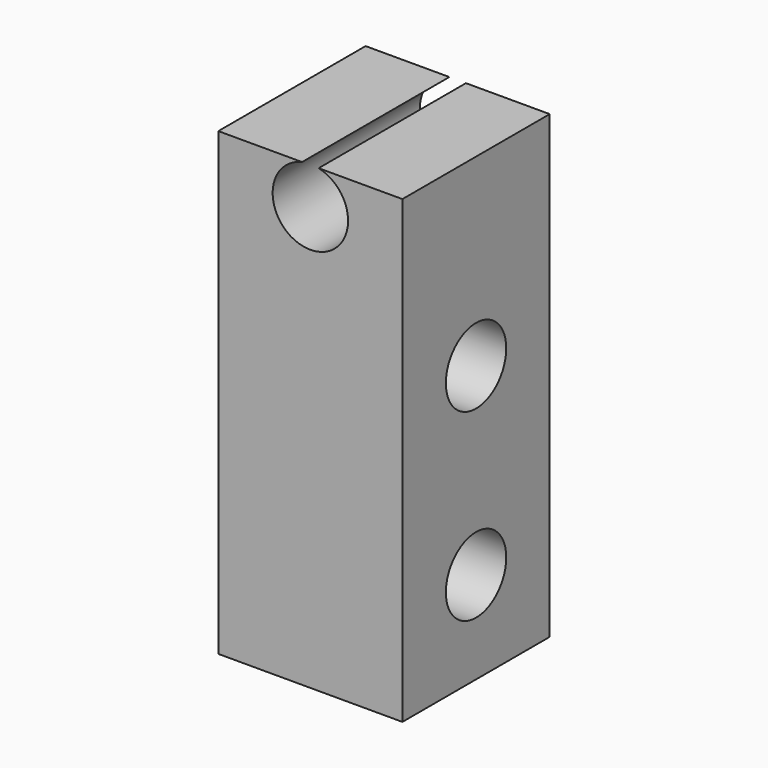
from build123d import *

# Parameters (mm, degrees)
SKETCH_W        = 20
SKETCH_H        = 20
PAD_DEPTH       = 50
SKETCH001_R     = 4.1
POCKET_DEPTH    = 20
SKETCH002_R     = 4.1
POCKET001_DEPTH = 20


with BuildPart() as part:
    # Sketch → Pad (new body)
    with BuildSketch(Plane.XY):
        with Locations((-14.537711, 19.886208)):
            Rectangle(SKETCH_W, SKETCH_H)
    extrude(amount=PAD_DEPTH)

    # Sketch001 → Pocket (cut)
    with BuildSketch(Plane.YZ.offset(-4.537711)):
        with Locations((19.886208, 30)):
            Circle(SKETCH001_R)
        with Locations((19.886208, 10)):
            Circle(SKETCH001_R)
    extrude(amount=-POCKET_DEPTH, mode=Mode.SUBTRACT)

    # Sketch002 → Pocket001 (cut)
    with BuildSketch(Plane.XZ.offset(-9.886208)):
        with Locations((-14.537711, 46)):
            Circle(SKETCH002_R)
    extrude(amount=-POCKET001_DEPTH, mode=Mode.SUBTRACT)


solid = part.part
